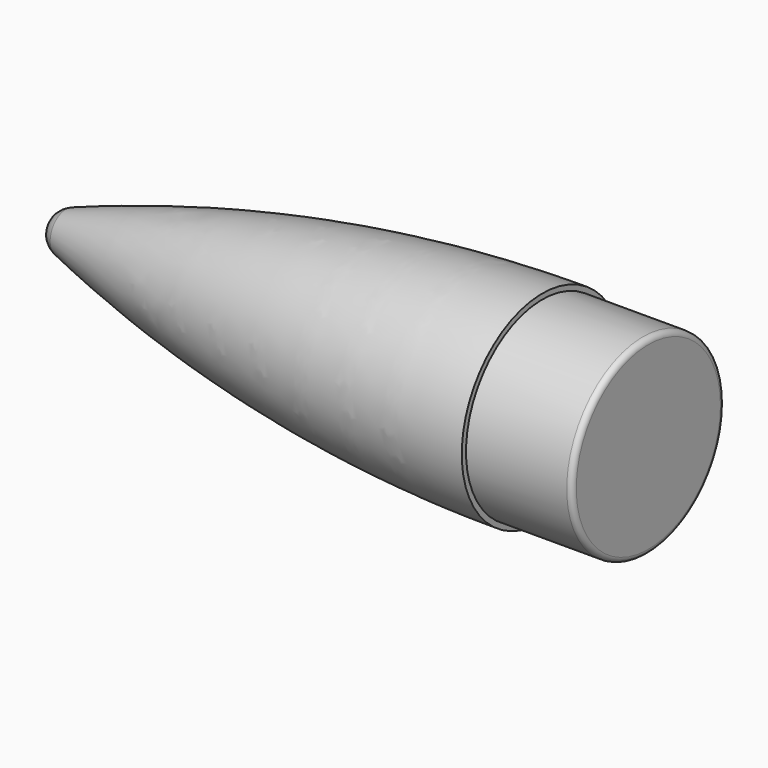
from build123d import *


with BuildPart() as f2:
    # F1 (on Top) → F2 (revolve)
    with BuildSketch(Plane.XY):
        with BuildLine():
            Line((100, 18), (100, 19))
            ThreePointArc((100, 19), (54.443651, 15.167228), (10.168081, 3.776668))
            ThreePointArc((10.168081, 3.776668), (13.802038, 3.261248), (15.485951, 0))
            Line((15.485951, 0), (120, 0))
            Line((120, 0), (120, 17))
            ThreePointArc((120, 17), (119.707107, 17.707107), (119, 18))
            Line((119, 18), (100, 18))
        make_face()
        with BuildLine():
            ThreePointArc((15.485951, 0), (13.802038, 3.261248), (10.168081, 3.776668))
            ThreePointArc((10.168081, 3.776668), (8.224703, 2.316087), (7.485951, 0))
            Line((7.485951, 0), (15.485951, 0))
        make_face()
    revolve(axis=Axis((60, 0, 0), (1, 0, 0)))


solid = f2.part
